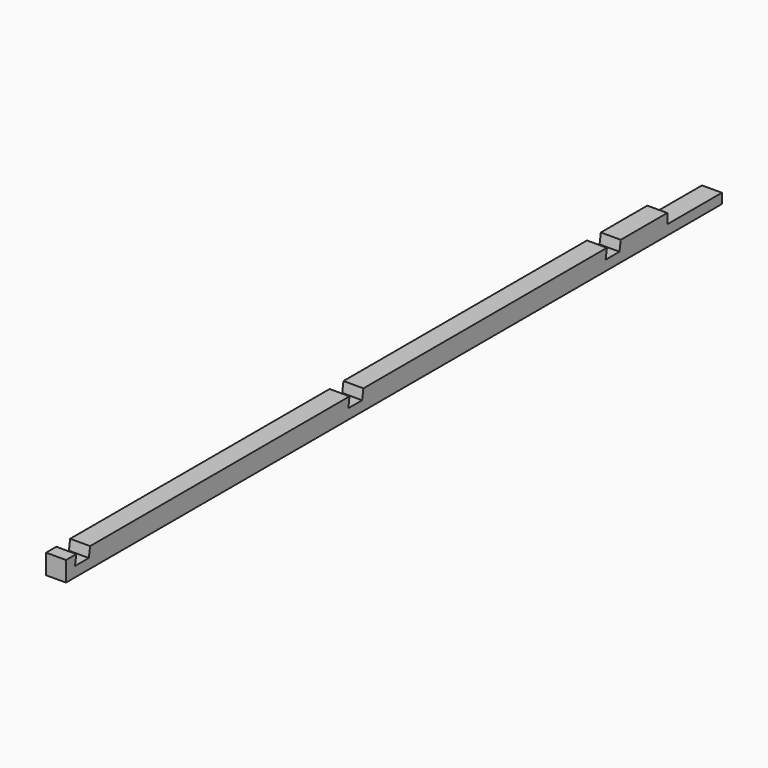
from build123d import *

# Parameters (mm, degrees)
F0_W     = 88.9
F0_H     = 88.9
F1_DEPTH = 3657.6
F2_W     = 304.8
F2_H     = 44.45
F3_DEPTH = 127


with BuildPart() as f1:
    # F0 (on Front) → F1 (new body)
    with BuildSketch(Plane.XZ):
        Rectangle(F0_W, F0_H)
    extrude(amount=F1_DEPTH)

    # F2 (on Right) → F3 (cut, symmetric)
    with BuildSketch(Plane.YZ):
        with Locations((-152.4, 22.225)):
            Rectangle(F2_W, F2_H)
        Polygon((-3523.2350649967, 44.45), (-3600.45, 44.45), (-3607.633289848, 0.5842634057), (-3530.4183548447, 0.5842634057), align=None)
        Polygon((-1999.2350649967, 44.45), (-2076.45, 44.45), (-2083.633289848, 0.5842634057), (-2006.4183548447, 0.5842634057), align=None)
        Polygon((-564.1350649967, 44.45), (-641.35, 44.45), (-648.533289848, 0.5842634057), (-571.3183548447, 0.5842634057), align=None)
    extrude(amount=F3_DEPTH, both=True, mode=Mode.SUBTRACT)


solid = f1.part
